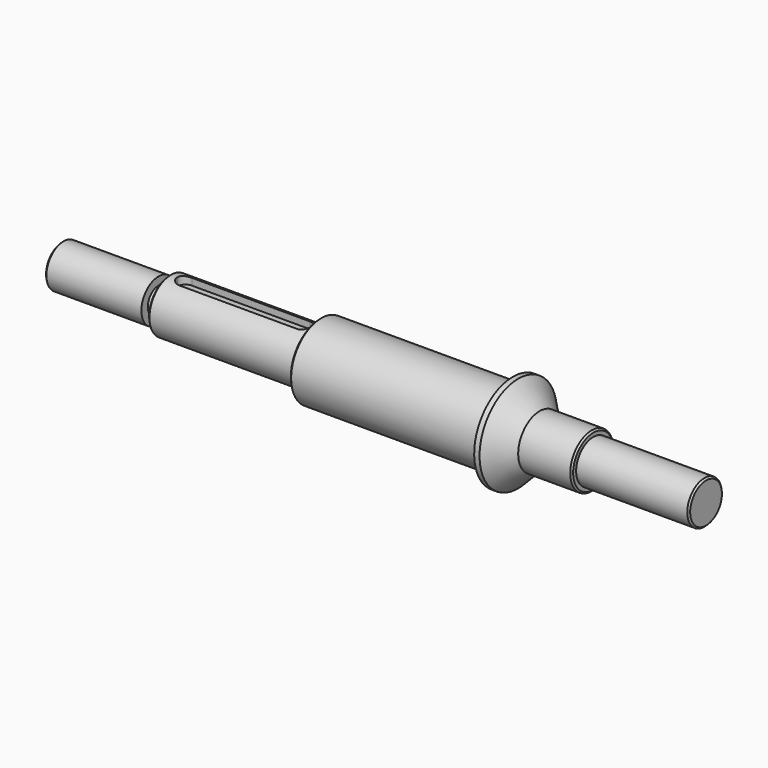
from build123d import *

# Parameters (mm, degrees)
F0_W     = 21
F0_H     = 4
F5_DEPTH = 1.5
F6_SIZE  = 0.3


with BuildPart() as f2:
    # F0 (on Front) → F2 (revolve)
    with BuildSketch(Plane.XZ):
        Polygon((0, 4), (0, 0), (84, 0), (84, 7), (48, 7), (48, 5), (46.5, 5), (45, 5), (23, 5), (20, 5), (20, 2.5), (18, 2.5), (18, 4), align=None)
        Polygon((84, 7), (84, 0), (99, 0), (99, 4), (99, 5), (89, 5), (85, 9), (84, 9), align=None)
        with Locations((109.5, 2)):
            Rectangle(F0_W, F0_H)
    revolve(axis=Axis((63.735422, 0, 0), (1, 0, 0)))

    # F4 (on offset) → F5 (cut, through all)
    with BuildSketch(Plane.XY.offset(3.5)):
        with BuildLine():
            Line((45.000072, 1.5), (23.000072, 1.5))
            ThreePointArc((23.000072, 1.5), (21.939412, 1.06066), (21.500072, 0))
            ThreePointArc((21.500072, 0), (21.939412, -1.06066), (23.000072, -1.5))
            Line((23.000072, -1.5), (45.000072, -1.5))
            ThreePointArc((45.000072, -1.5), (46.060732, -1.06066), (46.500072, 0))
            ThreePointArc((46.500072, 0), (46.060732, 1.06066), (45.000072, 1.5))
        make_face()
    extrude(amount=F5_DEPTH, mode=Mode.SUBTRACT)

    # F6
    f6_edges = [f2.edges().sort_by_distance(p)[0] for p in [
        (120, 0, -4),
        (99, 0, -5),
        (48, 0, -7),
        (20, 0, -5),
        (0, 0, -4),
    ]]
    chamfer(f6_edges, length=F6_SIZE)


solid = f2.part
